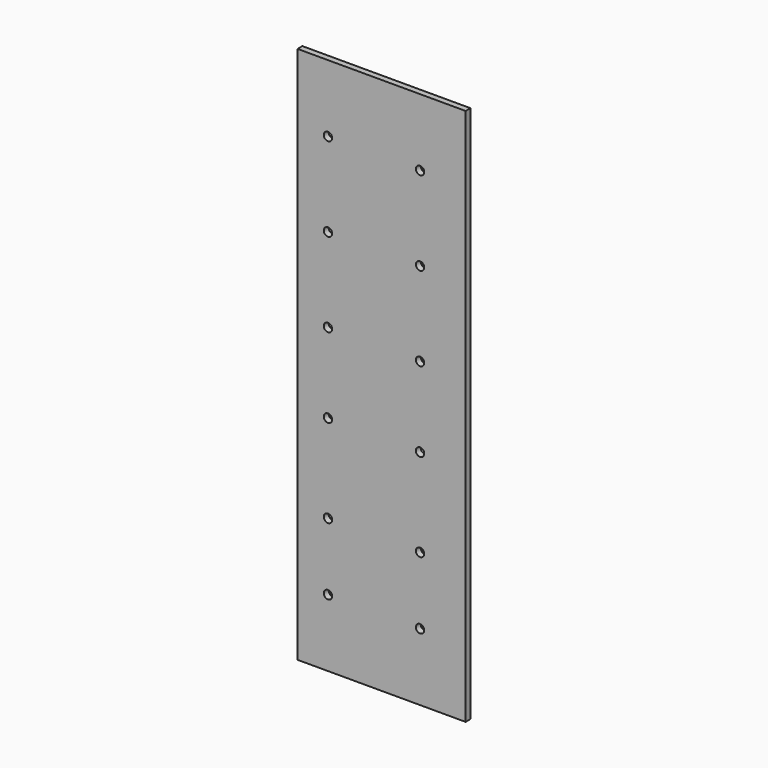
from build123d import *

# Parameters (mm, degrees)
F0_W     = 63.5
F0_H     = 203.2
F0_R     = 1.5875
F1_DEPTH = 2.286


with BuildPart() as f1:
    # F0 (on Front) → F1 (new body)
    with BuildSketch(Plane.XZ):
        Rectangle(F0_W, F0_H)
        with Locations((-20.256833, -76.2)):
            Circle(F0_R, mode=Mode.SUBTRACT)
        with Locations((-20.256833, -50.8)):
            Circle(F0_R, mode=Mode.SUBTRACT)
        with Locations((-20.256833, -17.4625)):
            Circle(F0_R, mode=Mode.SUBTRACT)
        with Locations((14.531173, -76.2)):
            Circle(F0_R, mode=Mode.SUBTRACT)
        with Locations((14.531173, -50.8)):
            Circle(F0_R, mode=Mode.SUBTRACT)
        with Locations((14.531173, -17.4625)):
            Circle(F0_R, mode=Mode.SUBTRACT)
        with Locations((-20.256833, 12.7)):
            Circle(F0_R, mode=Mode.SUBTRACT)
        with Locations((-20.256833, 44.45)):
            Circle(F0_R, mode=Mode.SUBTRACT)
        with Locations((-20.256833, 76.2)):
            Circle(F0_R, mode=Mode.SUBTRACT)
        with Locations((14.531173, 12.7)):
            Circle(F0_R, mode=Mode.SUBTRACT)
        with Locations((14.531173, 44.45)):
            Circle(F0_R, mode=Mode.SUBTRACT)
        with Locations((14.531173, 76.2)):
            Circle(F0_R, mode=Mode.SUBTRACT)
    extrude(amount=F1_DEPTH)


solid = f1.part
